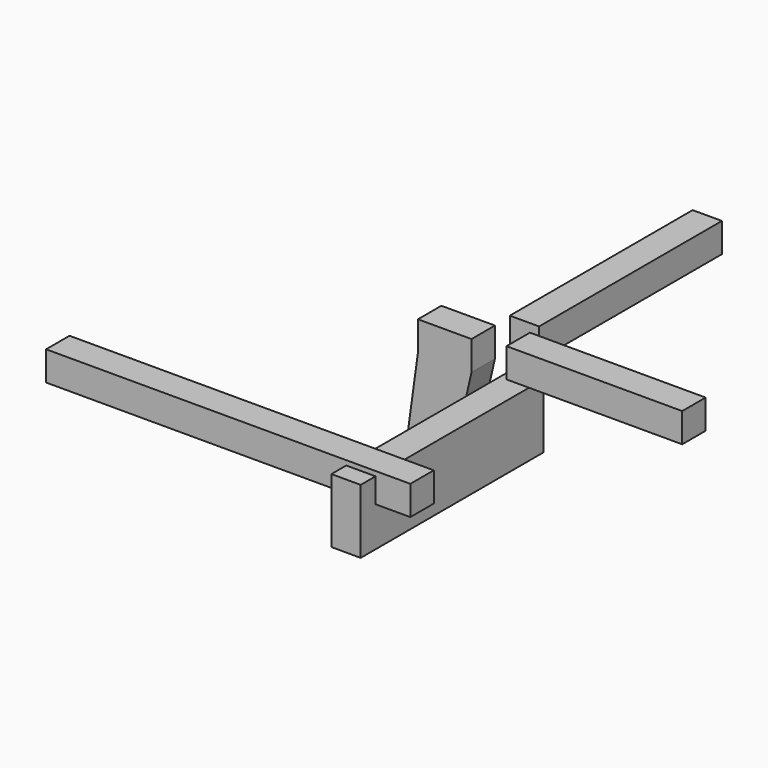
from build123d import *

# Parameters (mm, degrees)
F1_DEPTH = 41
F2_W     = 246
F2_H     = 41
F3_DEPTH = 41
F4_W     = 320
F4_H     = 41
F5_DEPTH = 41
F6_W     = 510
F6_H     = 41
F7_DEPTH = 41
F8_W     = 41
F8_H     = 90
F9_DEPTH = 320


with BuildPart() as f1:
    # F0 (on Front) → F1 (new body)
    with BuildSketch(Plane.XZ):
        Polygon((3.41058, 78.639174), (-71.58942, 78.639174), (-71.58942, 37.639174), (-86.58942, -71.360826), (-21.654289, -71.360826), (3.41058, 37.639174), align=None)
    extrude(amount=F1_DEPTH)


with BuildPart() as f3:
    # F2 (on Front) → F3 (new body)
    with BuildSketch(Plane.XZ):
        with Locations((175.404556, 65.313812)):
            Rectangle(F2_W, F2_H)
    extrude(amount=F3_DEPTH)


with BuildPart() as f5:
    # F4 (on Right) → F5 (new body)
    with BuildSketch(Plane.YZ):
        with Locations((190.279366, 56.91339)):
            Rectangle(F4_W, F4_H)
    extrude(amount=F5_DEPTH)


with BuildPart() as f7:
    # F6 (on Top) → F7 (new body)
    with BuildSketch(Plane.XY):
        with Locations((-134.822284, -273.51135)):
            Rectangle(F6_W, F6_H)
    extrude(amount=F7_DEPTH)


with BuildPart() as f9:
    # F8 (on Front) → F9 (new body)
    with BuildSketch(Plane.XZ):
        with Locations((50.960384, -10.567618)):
            Rectangle(F8_W, F8_H)
    extrude(amount=F9_DEPTH)


solid = Compound([f1.part, f3.part, f5.part, f7.part, f9.part])
